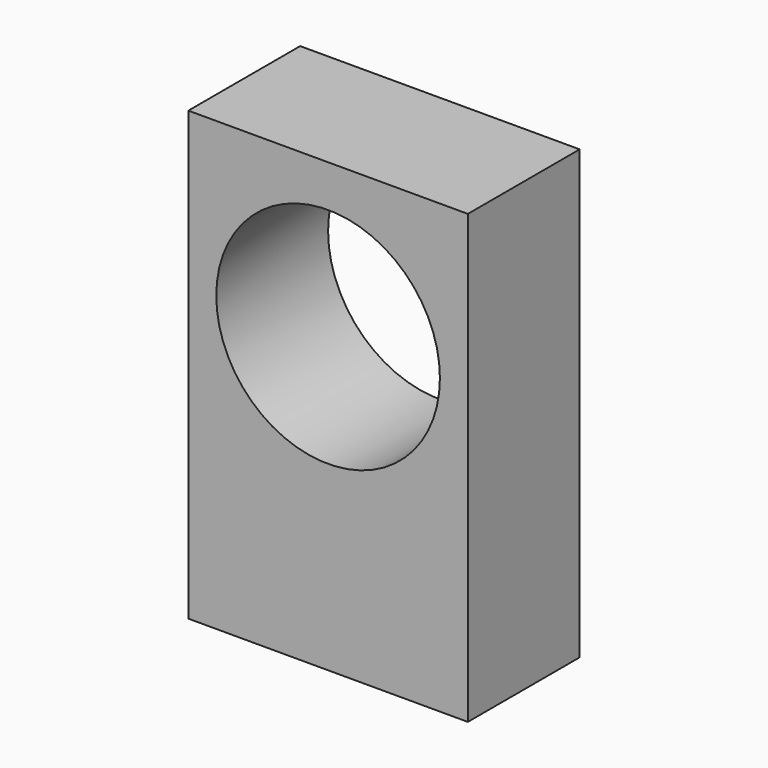
from build123d import *

# Parameters (mm, degrees)
F0_W     = 20
F0_H     = 10
F1_DEPTH = 32
F2_R     = 8
F3_DEPTH = 25
F5_D     = 4.2
F5_DEPTH = 10.4
F5_TIP   = 1.2618073


with BuildPart() as f1:
    # F0 (on Top) → F1 (new body)
    with BuildSketch(Plane.XY):
        with Locations((-27.6177362539, 13.0586402248)):
            Rectangle(F0_W, F0_H)
    extrude(amount=F1_DEPTH)

    # F2 (on face) → F3 (cut)
    with BuildSketch(Plane.XZ.offset(-8.0586402248)):
        with Locations((-27.6177362539, 21)):
            Circle(F2_R)
    extrude(amount=-F3_DEPTH, mode=Mode.SUBTRACT)

    # F5
    with Locations(Plane(origin=(0, 0, 0), x_dir=(1, 0, 0), z_dir=(0, 0, -1))):
        with Locations((-34.6177362539, -13.0586402248), (-20.6177362539, -13.0586402248)):
            Hole(F5_D / 2, depth=F5_DEPTH)
            with Locations((0, 0, -(F5_DEPTH + F5_TIP / 2))):  # 118° drill point
                Cone(0, F5_D / 2, F5_TIP, mode=Mode.SUBTRACT)


solid = f1.part
